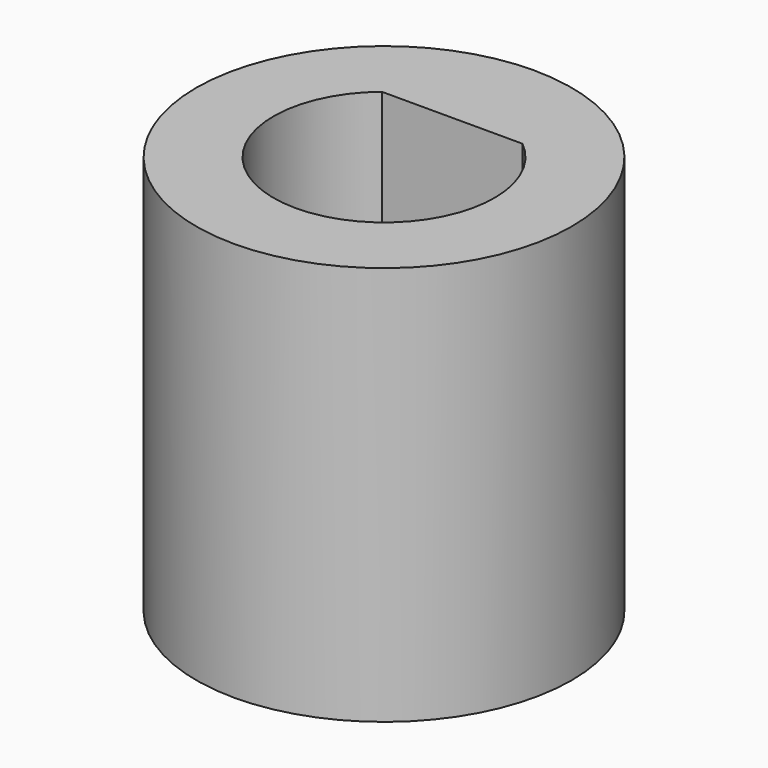
from build123d import *

# Parameters (mm, degrees)
SKETCH_R  = 7.05
PAD_DEPTH = 15


with BuildPart() as part:
    # Sketch → Pad (new body)
    with BuildSketch(Plane.XY):
        Circle(SKETCH_R)
        with BuildLine():
            ThreePointArc((-2.642442, 3.2), (0, -4.15), (2.642442, 3.2))
            Line((-2.642442, 3.2), (2.642442, 3.2))
        make_face(mode=Mode.SUBTRACT)
    extrude(amount=PAD_DEPTH)


solid = part.part
